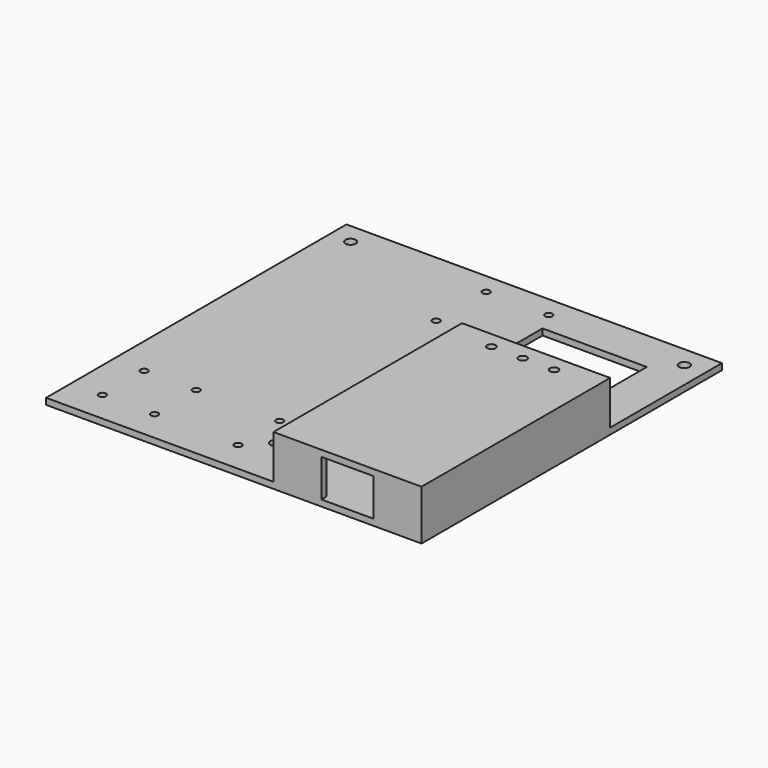
from build123d import *

# Parameters (mm, degrees)
SKETCH_W        = 180
SKETCH_H        = 180
SKETCH_R        = 2.5
SKETCH_W_2      = 50
SKETCH_H_2      = 40
PAD_DEPTH       = 3
PAD001_DEPTH    = 21
SKETCH002_W     = 113
SKETCH002_H     = 3
PAD002_DEPTH    = 71
SKETCH003_R     = 2
POCKET_DEPTH    = 100
SKETCH004_R     = 1.75
POCKET001_DEPTH = 5
SKETCH005_R     = 1.75
POCKET002_DEPTH = 5


with BuildPart() as part:
    # Sketch → Pad (new body)
    with BuildSketch(Plane.XY):
        with Locations((90, 90)):
            Rectangle(SKETCH_W, SKETCH_H)
        with Locations((90, 25)):
            Circle(SKETCH_R, mode=Mode.SUBTRACT)
        with Locations((10, 170)):
            Circle(SKETCH_R, mode=Mode.SUBTRACT)
        with Locations((170, 170)):
            Circle(SKETCH_R, mode=Mode.SUBTRACT)
        with Locations((135, 140)):
            Rectangle(SKETCH_W_2, SKETCH_H_2, mode=Mode.SUBTRACT)
    extrude(amount=PAD_DEPTH)

    # Sketch001 (on Face13 of Pad) → Pad001 (join)
    with BuildSketch(Plane.XY.offset(3)):
        Polygon((180, 0), (180, 113), (177, 113), (177, 3), (157, 3), (157, 0), align=None)
        Polygon((112, 113), (112, 3), (132, 3), (132, 0), (109, 0), (109, 113), align=None)
    extrude(amount=PAD001_DEPTH)

    # Sketch002 (on Face9 of Pad001) → Pad002 (join)
    with BuildSketch(Plane.YZ.offset(180)):
        with Locations((56.5, 22.5)):
            Rectangle(SKETCH002_W, SKETCH002_H)
    extrude(amount=-PAD002_DEPTH)

    # Sketch003 (on Face37 of Pad002) → Pocket (cut)
    with BuildSketch(Plane.XY.offset(24)):
        with Locations((129.5, 105)):
            Circle(SKETCH003_R)
        with Locations((144.5, 105)):
            Circle(SKETCH003_R)
        with Locations((159.5, 105)):
            Circle(SKETCH003_R)
    extrude(amount=-POCKET_DEPTH, mode=Mode.SUBTRACT)

    # Sketch004 (on Face5 of Pocket) → Pocket001 (cut)
    with BuildSketch(Plane.XY.offset(3)):
        with Locations((75, 170)):
            Circle(SKETCH004_R)
        with Locations((105, 170)):
            Circle(SKETCH004_R)
        with Locations((75, 140)):
            Circle(SKETCH004_R)
        with Locations((105, 140)):
            Circle(SKETCH004_R)
    extrude(amount=-POCKET001_DEPTH, mode=Mode.SUBTRACT)

    # Sketch005 (on Face5 of Pocket001) → Pocket002 (cut)
    with BuildSketch(Plane.XY.offset(3)):
        with Locations((15, 15)):
            Circle(SKETCH005_R)
        with Locations((15, 40)):
            Circle(SKETCH005_R)
        with Locations((40, 40)):
            Circle(SKETCH005_R)
        with Locations((40, 15)):
            Circle(SKETCH005_R)
        with Locations((80, 40)):
            Circle(SKETCH005_R)
        with Locations((80, 15)):
            Circle(SKETCH005_R)
    extrude(amount=-POCKET002_DEPTH, mode=Mode.SUBTRACT)


solid = part.part
